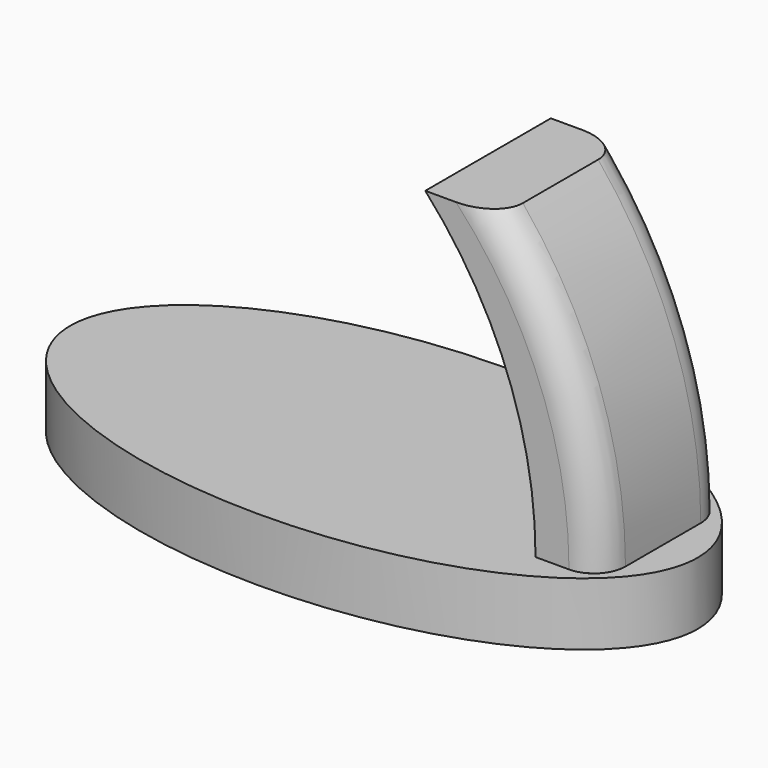
from build123d import *

# Parameters (mm, degrees)
F1_DEPTH = 10
F3_DEPTH = 12.5
F4_R     = 5
F5_DEPTH = 2


with BuildPart() as f1:
    # F0 (on Top) → F1 (new body)
    with BuildSketch(Plane.XY):
        with BuildLine():
            add(Edge.make_bspline(
                [(50, 0), (50, 43.3012701892), (-25, 21.6506350946), (-100, 0), (-25, -21.6506350946), (50, -43.3012701892), (50, 0)],
                knots=[0, 0, 0, 2.0943951024, 2.0943951024, 4.1887902048, 4.1887902048, 6.2831853072, 6.2831853072, 6.2831853072], degree=2, weights=[1, 0.5, 1, 0.5, 1, 0.5, 1]))
        make_face()
    extrude(amount=F1_DEPTH)



with BuildPart() as f3:
    # F2 (on Front) → F3 (new body, symmetric)
    with BuildSketch(Plane.XZ):
        with BuildLine():
            Line((34.1421152396, 10.0562050939), (44.4715455623, 10.0562050939))
            ThreePointArc((44.4715455623, 10.0562050939), (40.2624427373, 34.2796065634), (28.1285803091, 55.6632243097))
            Line((28.1285803091, 55.6632243097), (16.577856695, 55.6632243097))
            ThreePointArc((16.577856695, 55.6632243097), (29.5992911322, 34.4923636503), (34.1421152396, 10.0562050939))
        make_face()
    extrude(amount=F3_DEPTH, both=True)

    # F4
    f4_edges = [f3.edges().sort_by_distance(p)[0] for p in [
        (40.262443, -12.5, 34.279607),
        (40.262443, 12.5, 34.279607),
    ]]
    fillet(f4_edges, radius=F4_R)


with BuildPart() as f1_1:
    add(f1.part)
    # F5 (add): a face of the model
    f5_faces = [f3.part.faces().sort_by_distance(p)[0] for p in [
        (39.1313431267, 4.396e-07, 10.0562050939),
    ]]

    add(f3.part)  # F5 merges F3
    extrude(f5_faces, amount=F5_DEPTH)


solid = f1_1.part
